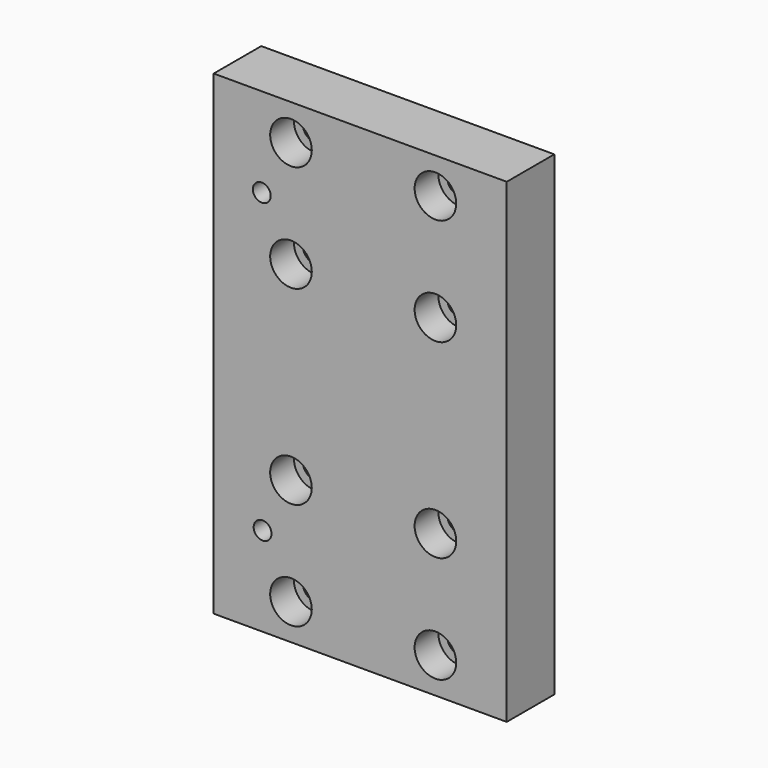
from build123d import *

# Parameters (mm, degrees)
F0_W     = 49.3000489473
F0_H     = 80
F0_R     = 1.5
F0_R_2   = 2
F1_DEPTH = 10
F2_R     = 3.5
F3_DEPTH = 5


with BuildPart() as f1:
    # F0 (on Front) → F1 (new body)
    with BuildSketch(Plane.XZ):
        with Locations((-125.6016208529, 98.4669085741)):
            Rectangle(F0_W, F0_H)
        with Locations((-142.0309088891, 73.4669085741)):
            Circle(F0_R, mode=Mode.SUBTRACT)
        with Locations((-137.2516453266, 64.4669085741)):
            Circle(F0_R_2, mode=Mode.SUBTRACT)
        with Locations((-137.2516453266, 82.4669085741)):
            Circle(F0_R_2, mode=Mode.SUBTRACT)
        with Locations((-137.2516453266, 89.2463258266)):
            Circle(F0_R_2, mode=Mode.SUBTRACT)
        with Locations((-112.9515963793, 64.4669085741)):
            Circle(F0_R_2, mode=Mode.SUBTRACT)
        with Locations((-112.9515963793, 82.4669085741)):
            Circle(F0_R_2, mode=Mode.SUBTRACT)
        with Locations((-112.9515963793, 89.2463258266)):
            Circle(F0_R_2, mode=Mode.SUBTRACT)
        with Locations((-137.2516453266, 107.2463258266)):
            Circle(F0_R_2, mode=Mode.SUBTRACT)
        with Locations((-137.2516453266, 114.4669085741)):
            Circle(F0_R_2, mode=Mode.SUBTRACT)
        with Locations((-142.1632353597, 123.4669085741)):
            Circle(F0_R, mode=Mode.SUBTRACT)
        with Locations((-137.2516453266, 132.4669085741)):
            Circle(F0_R_2, mode=Mode.SUBTRACT)
        with Locations((-112.9515963793, 107.2463258266)):
            Circle(F0_R_2, mode=Mode.SUBTRACT)
        with Locations((-112.9515963793, 114.4669085741)):
            Circle(F0_R_2, mode=Mode.SUBTRACT)
        with Locations((-112.9515963793, 132.4669085741)):
            Circle(F0_R_2, mode=Mode.SUBTRACT)
        with Locations((-137.2516453266, 107.2463258266)):
            Circle(F0_R_2)
        with Locations((-112.9515963793, 107.2463258266)):
            Circle(F0_R_2)
        with Locations((-137.2516453266, 89.2463258266)):
            Circle(F0_R_2)
        with Locations((-112.9515963793, 89.2463258266)):
            Circle(F0_R_2)
    extrude(amount=F1_DEPTH)

    # F2 (on face) → F3 (cut)
    with BuildSketch(Plane.XZ.offset(10)):
        with Locations((-137.2516453266, 132.4669085741)):
            Circle(F2_R)
        with Locations((-112.9515963793, 132.4669085741)):
            Circle(F2_R)
        with Locations((-112.9515963793, 114.4669085741)):
            Circle(F2_R)
        with Locations((-137.2516453266, 114.4669085741)):
            Circle(F2_R)
        with Locations((-137.2516453266, 82.4669085741)):
            Circle(F2_R)
        with Locations((-112.9515963793, 82.4669085741)):
            Circle(F2_R)
        with Locations((-112.9515963793, 64.4669085741)):
            Circle(F2_R)
        with Locations((-137.2516453266, 64.4669085741)):
            Circle(F2_R)
    extrude(amount=-F3_DEPTH, mode=Mode.SUBTRACT)


solid = f1.part
